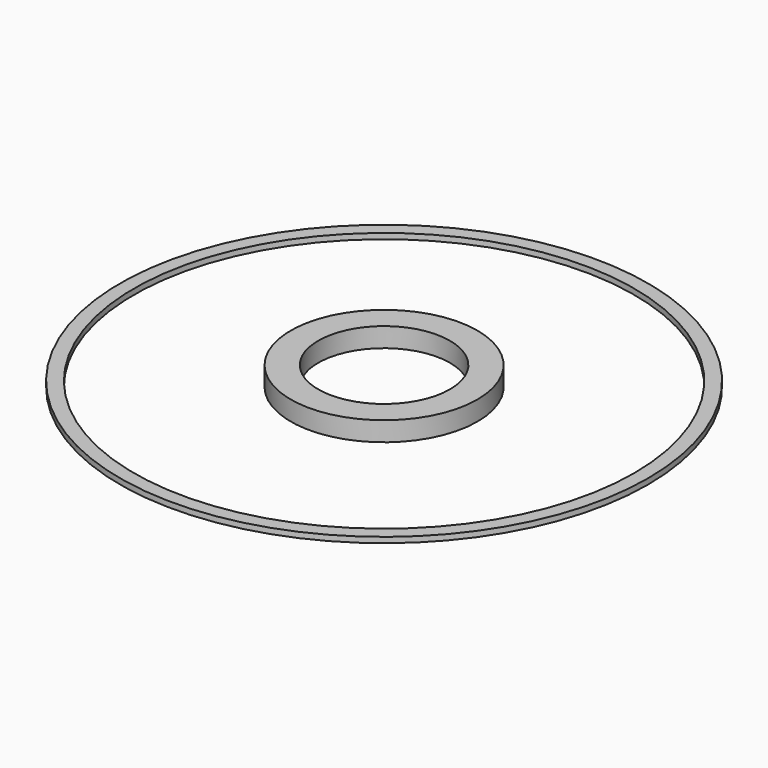
from build123d import *

# Parameters (mm, degrees)
F0_R     = 95
F0_R_2   = 90
F1_DEPTH = 2
F0_R_3   = 33.6
F0_R_4   = 23.7
F2_DEPTH = 7
F3_R     = 32.8
F3_R_2   = 24.5
F4_DEPTH = 4.9


with BuildPart() as f1:
    # F0 (on Top) → F1 (new body)
    with BuildSketch(Plane.XY):
        Circle(F0_R)
        Circle(F0_R_2, mode=Mode.SUBTRACT)
    extrude(amount=F1_DEPTH)


with BuildPart() as f2:
    # F0 (on Top) → F2 (new body)
    with BuildSketch(Plane.XY):
        Circle(F0_R_3)
        Circle(F0_R_4, mode=Mode.SUBTRACT)
    extrude(amount=F2_DEPTH)

    # F3 (on face) → F4 (cut)
    with BuildSketch(Plane(origin=(0, 0, 0), x_dir=(1, 0, 0), z_dir=(0, 0, -1))):
        Circle(F3_R)
        Circle(F3_R_2, mode=Mode.SUBTRACT)
    extrude(amount=-F4_DEPTH, mode=Mode.SUBTRACT)


solid = Compound([f1.part, f2.part])
